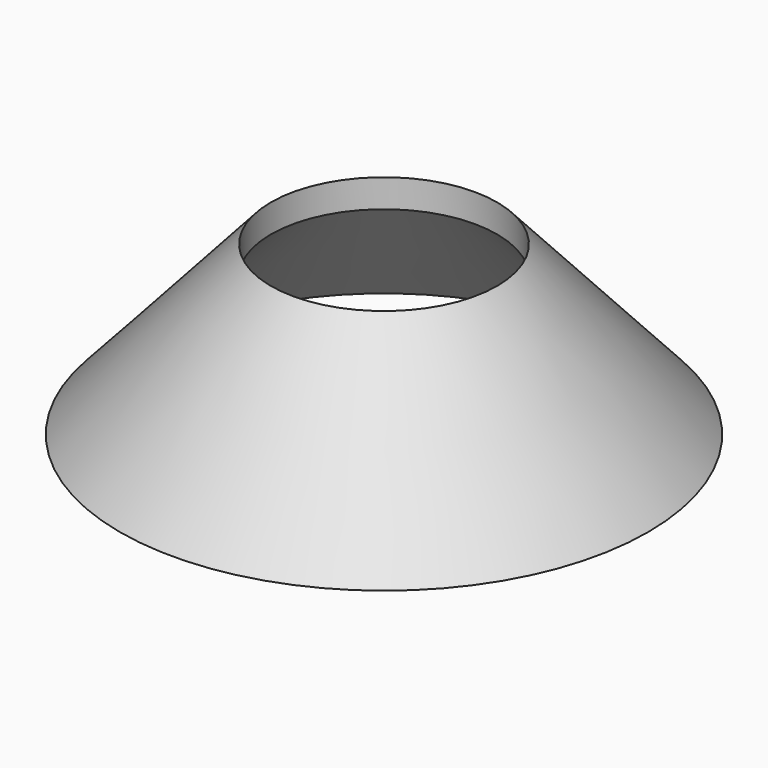
from build123d import *

# Parameters (mm, degrees)
F2_T      = -2.5
F1_FACE_R = 15
F3_DEPTH  = 25


with BuildPart() as f1:
    # F0 (on Front) → F1 (revolve)
    with BuildSketch(Plane.XZ):
        Polygon((0, 0), (0, 22.21225), (-15, 22.21225), (-35, 0), align=None)
    revolve(axis=Axis((0, 0, 30.702899), (0, 0, 1)))

    # F2
    f2_openings = [f1.faces().sort_by_distance(p)[0] for p in [
        (0, 0, 0),
    ]]
    offset(amount=F2_T, openings=f2_openings)

    # F1_face (on face) → F3 (cut)
    with BuildSketch(Plane.XY.offset(22.21225)):
        Circle(F1_FACE_R)
    extrude(amount=-F3_DEPTH, mode=Mode.SUBTRACT)


solid = f1.part
